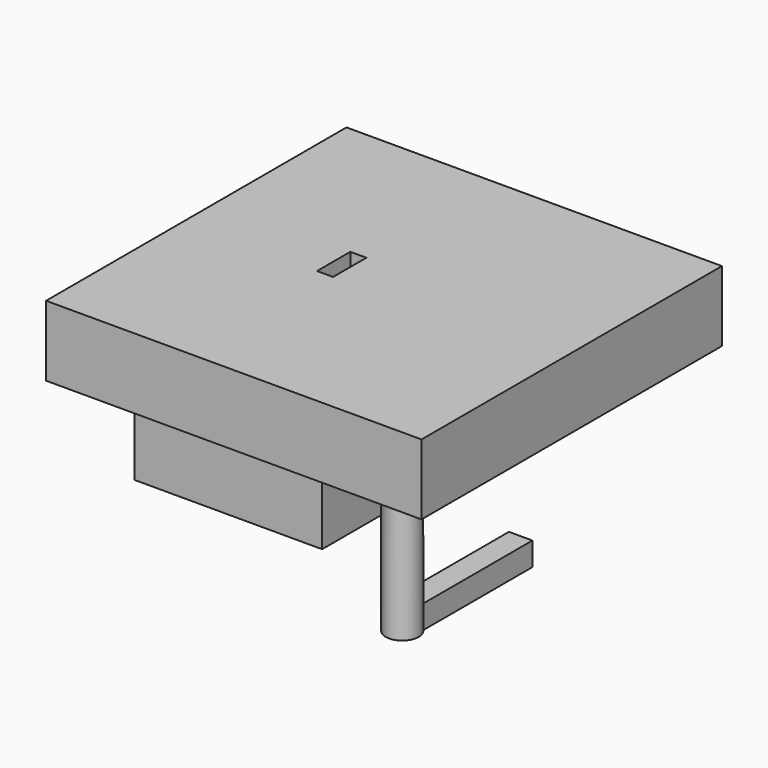
from build123d import *

# Parameters (mm, degrees)
F1_W      = 101.6
F1_H      = 101.6
F2_DEPTH  = 19.05
F3_R      = 4.445
F4_DEPTH  = 38.1
F5_W      = 6.35
F5_H      = 38.1
F6_DEPTH  = 6.35
F7_W      = 50.8
F7_H      = 76.2
F8_DEPTH  = 25.4
F9_W      = 12.7
F9_H      = 63.5
F10_DEPTH = 25.4
F11_W     = 4.349544
F11_H     = 11.269192
F12_DEPTH = 25.4


with BuildPart() as f2:
    # F1 (on offset) → F2 (new body)
    with BuildSketch(Plane.XY.offset(25.4)):
        with Locations((-0.6163, 3.356868)):
            Rectangle(F1_W, F1_H)
    extrude(amount=F2_DEPTH)

    # F7 (on face) → F8 (join)
    with BuildSketch(Plane(origin=(0, 0, 25.4), x_dir=(1, 0, 0), z_dir=(0, 0, -1))):
        with Locations((-13.572001, -4.973551)):
            Rectangle(F7_W, F7_H)
    extrude(amount=F8_DEPTH)

    # F9 (on face) → F10 (cut)
    with BuildSketch(Plane(origin=(0, 0, 0), x_dir=(1, 0, 0), z_dir=(0, 0, -1))):
        with Locations((-12.801679, -5.35343)):
            Rectangle(F9_W, F9_H)
    extrude(amount=-F10_DEPTH, mode=Mode.SUBTRACT)

    # F11 (on face) → F12 (cut)
    with BuildSketch(Plane(origin=(0, 0, 25.4), x_dir=(1, 0, 0), z_dir=(0, 0, -1))):
        with Locations((-13.0379, -4.580913)):
            Rectangle(F11_W, F11_H)
    extrude(amount=-F12_DEPTH, mode=Mode.SUBTRACT)


with BuildPart() as f4:
    # F3 (on face) → F4 (new body)
    with BuildSketch(Plane(origin=(0, 0, 25.4), x_dir=(1, 0, 0), z_dir=(0, 0, -1))):
        with Locations((33.153266, 32.685717)):
            Circle(F3_R)
    extrude(amount=F4_DEPTH)

    # F5 (on face) → F6 (join)
    with BuildSketch(Plane(origin=(0, 0, -12.7), x_dir=(1, 0, 0), z_dir=(0, 0, -1))):
        with Locations((33.226073, 11.772308)):
            Rectangle(F5_W, F5_H)
    extrude(amount=-F6_DEPTH)


solid = Compound([f2.part, f4.part])
